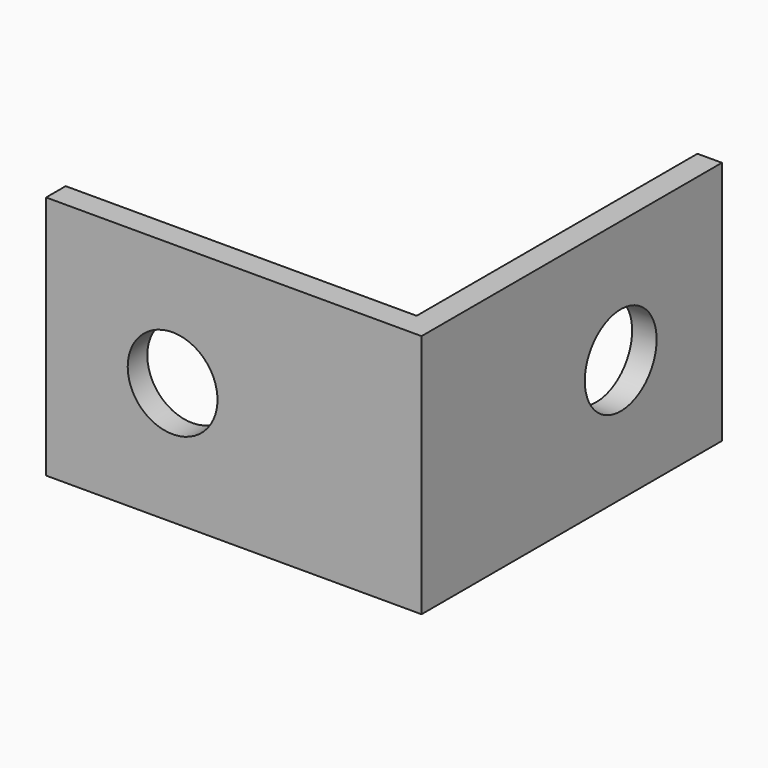
from build123d import *

# Parameters (mm, degrees)
PAD_DEPTH       = 15
SKETCH001_R     = 2.75
POCKET_DEPTH    = 1.5
SKETCH002_R     = 2.75
POCKET001_DEPTH = 1.501


with BuildPart() as part:
    # Sketch → Pad (new body)
    with BuildSketch(Plane.XY):
        Polygon((-1.5, 1.5), (-23, 1.5), (-23, 0), (0, 0), (0, 23), (-1.5, 23), align=None)
    extrude(amount=PAD_DEPTH)

    # Sketch001 → Pocket (cut)
    with BuildSketch(Plane(origin=(0, 1.5, 0), x_dir=(-1, 0, 0), z_dir=(0, 1, 0))):
        with Locations((15.25, 7.5)):
            Circle(SKETCH001_R)
    extrude(amount=-POCKET_DEPTH, mode=Mode.SUBTRACT)

    # Sketch002 → Pocket001 (cut, through all)
    with BuildSketch(Plane(origin=(-1.5, 0, 0), x_dir=(0, -1, 0), z_dir=(-1, 0, 0))):
        with Locations((-15.25, 7.5)):
            Circle(SKETCH002_R)
    extrude(amount=-POCKET001_DEPTH, mode=Mode.SUBTRACT)


solid = part.part
